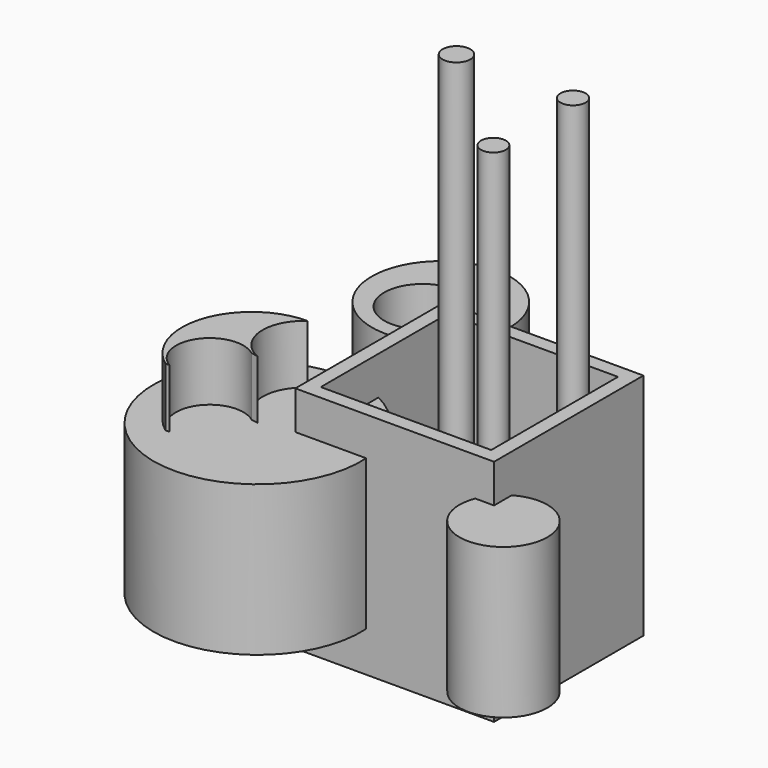
from build123d import *

# Parameters (mm, degrees)
F0_W      = 84.681348
F0_H      = 79.57127
F1_DEPTH  = 97.6
F2_W      = 72.63615
F2_H      = 67.526072
F3_DEPTH  = 80.4
F4_W      = 15.918285
F4_H      = 17.129506
F5_DEPTH  = 25
F6_R      = 29.419222
F6_R_2    = 16.315322
F6_R_3    = 18.735501
F6_R_4    = 44.258048
F7_DEPTH  = 64
F9_DEPTH  = 25
F10_R     = 5.909634
F10_R_2   = 5.365188
F10_R_3   = 5.310057
F11_DEPTH = 184.5


with BuildPart() as f1:
    # F0 (on Top) → F1 (new body)
    with BuildSketch(Plane.XY):
        Rectangle(F0_W, F0_H)
    extrude(amount=F1_DEPTH)

    # F2 (on face) → F3 (cut)
    with BuildSketch(Plane.XY.offset(97.6)):
        Rectangle(F2_W, F2_H)
    extrude(amount=-F3_DEPTH, mode=Mode.SUBTRACT)

    # F4 (on face) → F5 (cut)
    with BuildSketch(Plane.XY.offset(17.2)):
        with Locations((1.189717, 0)):
            Rectangle(F4_W, F4_H)
    extrude(amount=-F5_DEPTH, mode=Mode.SUBTRACT)

    # F6 (on face) → F7 (join)
    with BuildSketch(Plane.XY.offset(17.2)):
        with Locations((-63.14601, 63.693516)):
            Circle(F6_R)
        with Locations((-65.783553, 57.266586)):
            Circle(F6_R_2, mode=Mode.SUBTRACT)
        with Locations((51.776342, -46.565104)):
            Circle(F6_R_3)
        with Locations((-56.309156, -42.504646)):
            Circle(F6_R_4)
    extrude(amount=F7_DEPTH)

    # F8 (on face) → F9 (join)
    with BuildSketch(Plane.XY.offset(81.2)):
        with BuildLine():
            Line((-59.266231, -12.31808), (-59.134718, -12.228968))
            ThreePointArc((-59.134718, -12.228968), (-87.44846, -32.584632), (-76.876305, -65.814897))
            Line((-76.876305, -65.814897), (-75.113826, -65.814897))
            ThreePointArc((-75.113826, -65.814897), (-79.899161, -45.437809), (-59.266231, -41.915392))
            Line((-59.266231, -41.915392), (-56.309156, -42.504646))
            ThreePointArc((-56.309156, -42.504646), (-66.71571, -28.285951), (-59.266231, -12.31808))
        make_face()
    extrude(amount=F9_DEPTH)

    # F10 (on face) → F11 (join)
    with BuildSketch(Plane.XY.offset(17.2)):
        with Locations((-25.949495, 25.54986)):
            Circle(F10_R)
        with Locations((24.015264, 25.207581)):
            Circle(F10_R_2)
        with Locations((24.580577, -17.912829)):
            Circle(F10_R_3)
    extrude(amount=F11_DEPTH)


solid = f1.part
